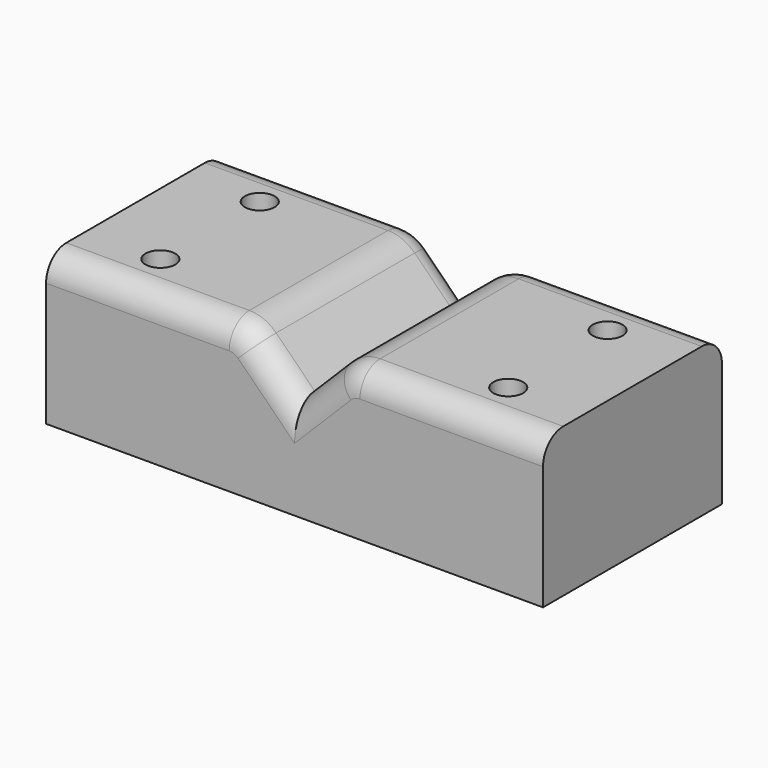
from build123d import *

# Parameters (mm, degrees)
F1_DEPTH = 45
F2_R     = 7.62
F3_R     = 5.08
F5_D     = 6


with BuildPart() as f1:
    # F0 (on Front) → F1 (new body)
    with BuildSketch(Plane.XZ):
        Polygon((50, 20), (20, 20), (10, 20), (0, 10), (-10, 20), (-20, 20), (-50, 20), (-50, 0), (-50, -10), (50, -10), (50, 0), align=None)
    extrude(amount=F1_DEPTH)

    # F2
    f2_edges = [f1.edges().sort_by_distance(p)[0] for p in [
        (10, -22.5, 20),
        (-10, -22.5, 20),
    ]]
    fillet(f2_edges, radius=F2_R)

    # F3
    f3_edges = [f1.edges().sort_by_distance(p)[0] for p in [
        (-31.578154, -45, 20),
        (31.578154, -45, 20),
        (31.578154, 0, 20),
        (-31.578154, 0, 20),
    ]]
    fillet(f3_edges, radius=F3_R)

    # F5 (through all)
    with Locations(Plane(origin=(0, 0, -10), x_dir=(1, 0, 0), z_dir=(0, 0, -1))):
        with Locations((35, 10), (35, 35), (-35, 35), (-35, 10)):
            Hole(F5_D / 2)


solid = f1.part
